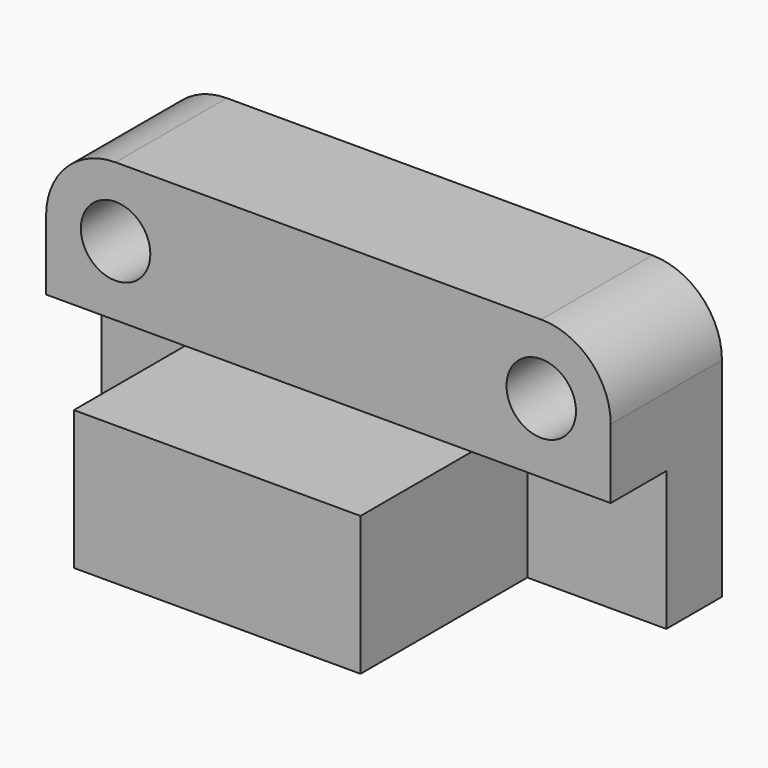
from build123d import *

# Parameters (mm, degrees)
F0_R     = 12.7
F1_DEPTH = 101.6
F2_W     = 50.8
F2_H     = 50.8
F3_DEPTH = 76.2
F4_W     = 180.9563313782
F4_H     = 50.8
F5_DEPTH = 50.8
F6_W     = 50.8
F6_H     = 50.8
F7_DEPTH = 203.2


with BuildPart() as f1:
    # F0 (on Front) → F1 (new body)
    with BuildSketch(Plane.XZ):
        with BuildLine():
            Line((86.0436633229, 34.1943300605), (-69.5126680553, 34.1943300605))
            ThreePointArc((-69.5126680553, 34.1943300605), (-87.4731802974, 26.7548423026), (-94.9126680553, 8.7943300605))
            Line((-94.9126680553, 8.7943300605), (-94.9126680553, -67.4056699395))
            Line((-94.9126680553, -67.4056699395), (111.4436633229, -67.4056699395))
            Line((111.4436633229, -67.4056699395), (111.4436633229, 8.7943300605))
            ThreePointArc((111.4436633229, 8.7943300605), (104.0041755651, 26.7548423026), (86.0436633229, 34.1943300605))
        make_face()
        with Locations((-69.5126680553, 8.7943300605)):
            Circle(F0_R, mode=Mode.SUBTRACT)
        with Locations((86.0436633229, 8.7943300605)):
            Circle(F0_R, mode=Mode.SUBTRACT)
    extrude(amount=F1_DEPTH)

    # F2 (on face) → F3 (cut)
    with BuildSketch(Plane.XZ.offset(101.6)):
        with Locations((-69.5126680553, -42.0056699395)):
            Rectangle(F2_W, F2_H)
        with Locations((86.0436633229, -42.0056699395)):
            Rectangle(F2_W, F2_H)
    extrude(amount=-F3_DEPTH, mode=Mode.SUBTRACT)

    # F4 (on face) → F5 (cut)
    with BuildSketch(Plane.XZ.offset(101.6)):
        with Locations((20.9654976338, 8.7943300605)):
            Rectangle(F4_W, F4_H)
    extrude(amount=-F5_DEPTH, mode=Mode.SUBTRACT)

    # F6 (on face) → F7 (cut)
    with BuildSketch(Plane.YZ.offset(-69.5126680553)):
        with Locations((-76.2, 8.7943300605)):
            Rectangle(F6_W, F6_H)
    extrude(amount=-F7_DEPTH, mode=Mode.SUBTRACT)


solid = f1.part
